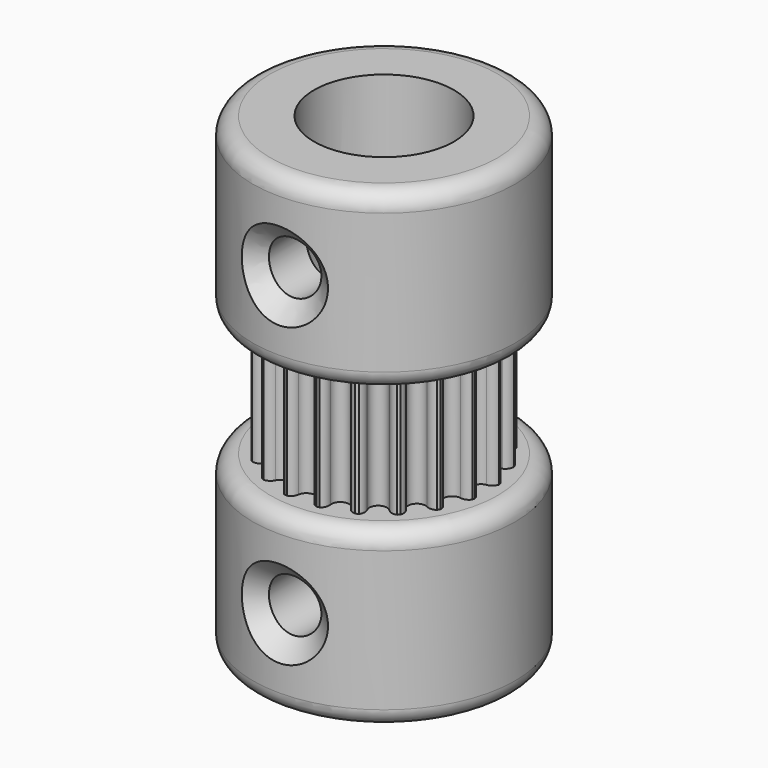
from build123d import *

# Parameters (mm, degrees)
SKETCH_R              = 5.95
PAD_DEPTH             = 3.5
POCKET_DEPTH          = 3.5
POLARPATTERN_COUNT    = 20
SKETCH002_R           = 7.5
PAD001_DEPTH          = 10
SKETCH003_R           = 7.5
PAD002_DEPTH          = 10
FILLET_R              = 1
SKETCH004_R           = 2.5
POCKET001_DEPTH       = 13.5
SKETCH005_R           = 4
POCKET002_DEPTH       = 13.5
SKETCH006_R           = 1.5
POCKET003_DEPTH       = 76.174139
POLARPATTERN001_COUNT = 2
POLARPATTERN001_ANGLE = 90
CHAMFER_SIZE          = 1


with BuildPart() as part:
    # Sketch → Pad (new body, symmetric)
    with BuildSketch(Plane.XY):
        Circle(SKETCH_R)
    extrude(amount=PAD_DEPTH, both=True)

    # Sketch001 → Pocket (cut, symmetric)
    with BuildSketch(Plane.XY):
        with BuildLine():
            ThreePointArc((-0.495406, 5.477643), (-0.697454, 5.814914), (-1.080885, 5.901838))
            ThreePointArc((1.080885, 5.901838), (0, 6), (-1.080885, 5.901838))
            ThreePointArc((1.080885, 5.901838), (0.697454, 5.814914), (0.495406, 5.477643))
            ThreePointArc((-0.495406, 5.477643), (0, 5.045268), (0.495406, 5.477643))
        make_face()
    pocket = extrude(amount=POCKET_DEPTH, both=True, mode=Mode.SUBTRACT)

    # PolarPattern: Pocket ×20 about axis
    polarpattern_axis = Axis((0, 0, 0), (0, 0, 1))
    for i in range(1, POLARPATTERN_COUNT):
        add(pocket.rotate(polarpattern_axis, i * 360 / POLARPATTERN_COUNT), mode=Mode.SUBTRACT)

    # Sketch002 (on Face2 of PolarPattern) → Pad001 (join)
    with BuildSketch(Plane(origin=(0, 0, -3.5), x_dir=(1, 0, 0), z_dir=(0, 0, -1))):
        Circle(SKETCH002_R)
    extrude(amount=PAD001_DEPTH)

    # Sketch003 → Pad002 (join)
    with BuildSketch(Plane.XY.offset(3.5)):
        Circle(SKETCH003_R)
    extrude(amount=PAD002_DEPTH)

    # Fillet
    fillet_edges = [part.edges().sort_by_distance(p)[0] for p in [
        (7.5, 0, 8.5),
        (-7.5, 0, 3.5),
        (-7.5, 0, 13.5),
        (7.5, 0, -8.5),
        (-7.5, 0, -3.5),
        (-7.5, 0, -13.5),
    ]]
    fillet(fillet_edges, radius=FILLET_R)

    # Sketch004 → Pocket001 (cut)
    with BuildSketch(Plane.XY):
        Circle(SKETCH004_R)
    extrude(amount=-POCKET001_DEPTH, mode=Mode.SUBTRACT)

    # Sketch005 → Pocket002 (cut)
    with BuildSketch(Plane.XY):
        Circle(SKETCH005_R)
    extrude(amount=POCKET002_DEPTH, mode=Mode.SUBTRACT)

    # Sketch006 → Pocket003 (cut, through all)
    with BuildSketch(Plane.YZ):
        with Locations((0, 8.5)):
            Circle(SKETCH006_R)
        with Locations((0, -8.5)):
            Circle(SKETCH006_R)
    pocket003 = extrude(amount=-POCKET003_DEPTH, mode=Mode.SUBTRACT)

    # PolarPattern001: Pocket003 ×2 about axis
    polarpattern001_axis = Axis((0, 0, 0), (0, 0, 1))
    for i in range(1, POLARPATTERN001_COUNT):
        add(pocket003.rotate(polarpattern001_axis, i * POLARPATTERN001_ANGLE / (POLARPATTERN001_COUNT - 1)), mode=Mode.SUBTRACT)

    # Chamfer
    chamfer_edges = [part.edges().sort_by_distance(p)[0] for p in [
        (-7.348469, -1.5, 8.5),
        (-7.348469, -1.5, -8.5),
        (1.5, -7.348469, 8.5),
        (1.5, -7.348469, -8.5),
    ]]
    chamfer(chamfer_edges, length=CHAMFER_SIZE)


solid = part.part
